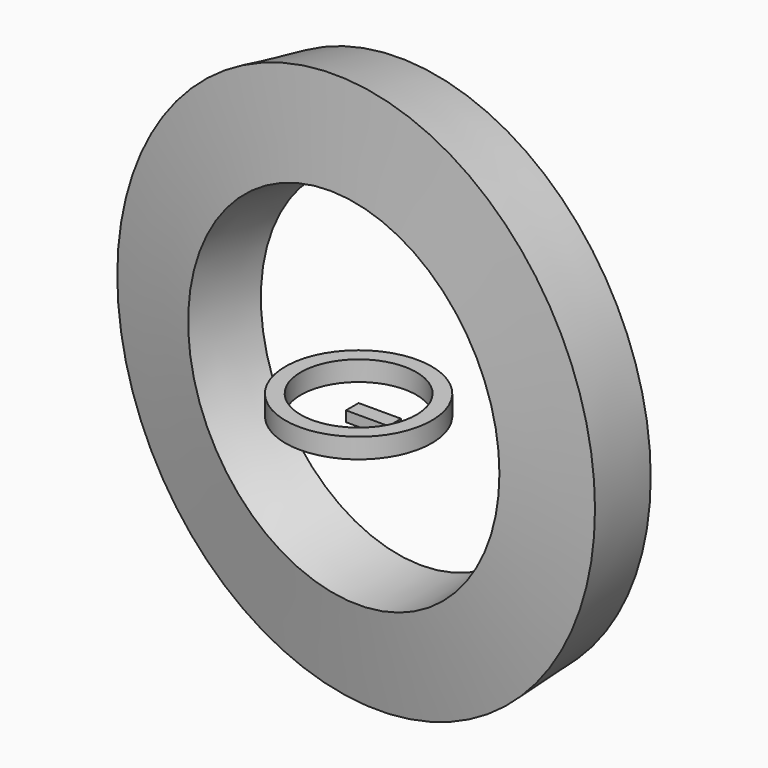
from build123d import *

# Parameters (mm, degrees)
F0_W     = 116.0661578178
F0_H     = 76.507166028
F2_DEPTH = 311.695529148
F3_W     = 112.8542423248
F3_H     = 146.3711559772
F5_W     = 700.1872062683
F5_H     = 510.1366043091


with BuildPart() as f2:
    # F0 (on Right) → F2 (new body)
    with BuildSketch(Plane.YZ):
        with Locations((156.9139957428, -26.5412181616)):
            Rectangle(F0_W, F0_H)
    extrude(amount=F2_DEPTH)


with BuildPart() as f4:
    # F3 (on Right) → F4 (revolve)
    with BuildSketch(Plane.YZ):
        with Locations((-264.7072672844, 0)):
            Rectangle(F3_W, F3_H)
    revolve(axis=Axis((0, 214.9470746517, -26.5412181616), (0, 0, -1)))


with BuildPart() as f6:
    # F5 (on Top) → F6 (revolve)
    with BuildSketch(Plane.XY):
        with Locations((1512.3281478882, 306.6558837891)):
            Rectangle(F5_W, F5_H)
    revolve(axis=Axis((-124.8612999916, 211.6487026215, 0), (-0.1388993005, -0.9903065103, 0)))


solid = Compound([f2.part, f4.part, f6.part])
